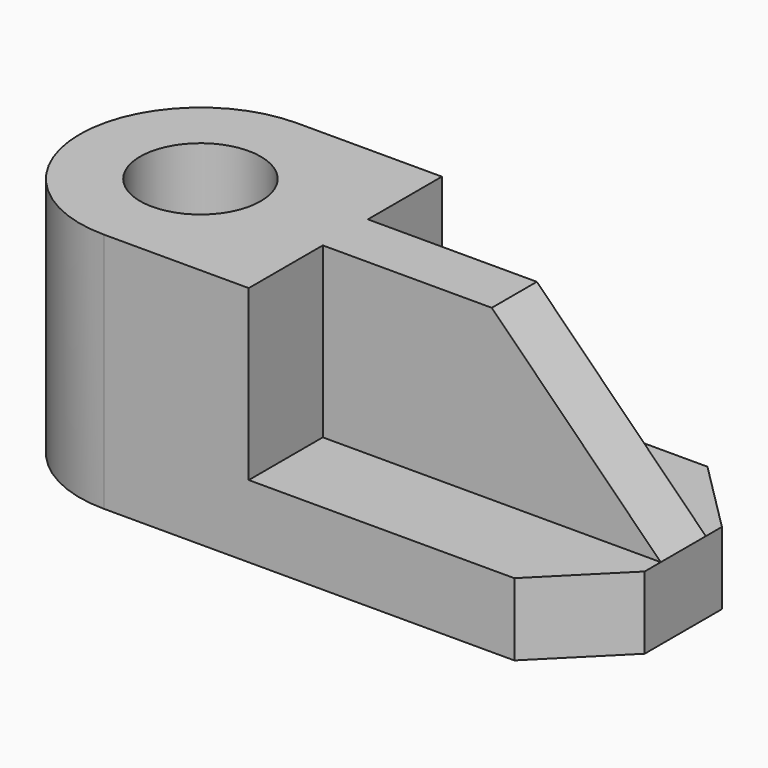
from build123d import *

# Parameters (mm, degrees)
F0_R     = 75
F1_DEPTH = 90
F2_R     = 75
F2_W     = 420
F2_H     = 70
F3_DEPTH = 210
F4_SIZE  = 210


with BuildPart() as f1:
    # F0 (on Top) → F1 (new body)
    with BuildSketch(Plane.XY):
        with BuildLine():
            Line((-510, 0), (0, 0))
            Line((0, 0), (90, 90))
            Line((90, 90), (90, 210))
            Line((90, 210), (0, 300))
            Line((0, 300), (-330, 300))
            Line((-330, 300), (-510, 300))
            ThreePointArc((-510, 300), (-660, 150), (-510, 0))
        make_face()
        with Locations((-510, 150)):
            Circle(F0_R, mode=Mode.SUBTRACT)
    extrude(amount=F1_DEPTH)

    # F2 (on face) → F3 (join)
    with BuildSketch(Plane.XY.offset(90)):
        with BuildLine():
            Line((-330, 300), (-510, 300))
            ThreePointArc((-510, 300), (-660, 150), (-510, 0))
            Line((-510, 0), (-330, 0))
            Line((-330, 0), (-330, 115))
            Line((-330, 115), (-330, 185))
            Line((-330, 185), (-330, 300))
        make_face()
        with Locations((-510, 150)):
            Circle(F2_R, mode=Mode.SUBTRACT)
        with Locations((-120, 150)):
            Rectangle(F2_W, F2_H)
    extrude(amount=F3_DEPTH)

    # F4
    f4_edges = [f1.edges().sort_by_distance(p)[0] for p in [
        (90, 150, 300),
    ]]
    chamfer(f4_edges, length=F4_SIZE)


solid = f1.part
